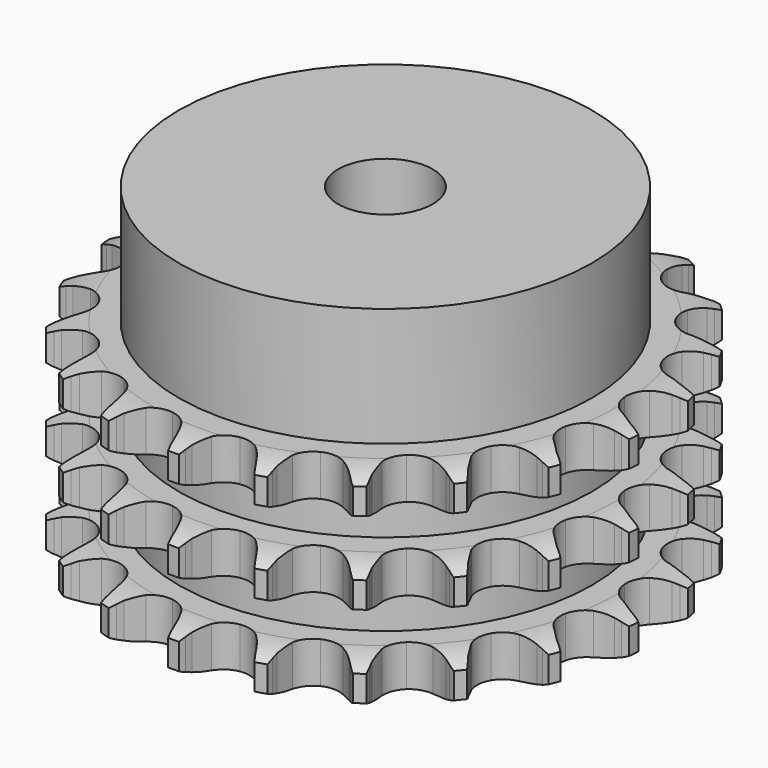
from build123d import *

# Parameters (mm, degrees)
PAD_DEPTH         = 34.9
SKETCH001_R       = 35
PAD001_DEPTH      = 55
SKETCH002_R       = 8
POCKET_DEPTH      = 0.001
POCKET_DEPTH_BACK = 55.001


with BuildPart() as part:
    # Sprocket → Pad (new body)
    with BuildSketch(Plane.XY):
        with BuildLine():
            ThreePointArc((-6.913563, 45.868493), (-5.990553, 44.773338), (-5.309548, 43.51336))
            Line((-5.309548, 43.51336), (-4.898754, 42.52278))
            ThreePointArc((-4.898754, 42.52278), (-4.238507, 41.19022), (-3.406386, 39.957655))
            ThreePointArc((-3.406386, 39.957655), (-1.89613, 38.72999), (0, 38.290989))
            ThreePointArc((0, 38.290989), (1.89613, 38.72999), (3.406386, 39.957655))
            ThreePointArc((3.406386, 39.957655), (4.238507, 41.19022), (4.898754, 42.52278))
            Line((4.898754, 42.52278), (5.309548, 43.51336))
            ThreePointArc((5.309548, 43.51336), (5.990553, 44.773338), (6.913563, 45.868493))
            ThreePointArc((6.913563, 45.868493), (7.472764, 44.549931), (7.752128, 43.1452))
            Line((7.752128, 43.1452), (7.852693, 42.077545))
            ThreePointArc((7.852693, 42.077545), (8.090828, 40.609576), (8.522676, 39.186498))
            ThreePointArc((8.522676, 39.186498), (9.603975, 37.56822), (11.286467, 36.589828))
            ThreePointArc((11.286467, 36.589828), (13.227756, 36.450431), (15.032775, 37.178398))
            Line((15.032775, 37.178398), (17.214925, 39.189679))
            ThreePointArc((17.214925, 39.189679), (17.547232, 39.610678), (17.899448, 40.015167))
            ThreePointArc((17.899448, 40.015167), (18.921582, 41.018438), (20.126388, 41.792876))
            ThreePointArc((20.126388, 41.792876), (20.272093, 40.368066), (20.124994, 38.9434))
            Line((20.124994, 38.9434), (19.906394, 37.893536))
            ThreePointArc((19.906394, 37.893536), (19.701258, 36.420593), (19.69446, 34.933449))
            ThreePointArc((19.69446, 34.933449), (20.250724, 33.068348), (21.570082, 31.6375))
            ThreePointArc((21.570082, 31.6375), (23.384037, 30.932091), (25.323437, 31.095678))
            Line((25.323437, 31.095678), (28.001475, 32.374403))
            ThreePointArc((28.001475, 32.374403), (28.44311, 32.678749), (28.898903, 32.96145))
            ThreePointArc((28.898903, 32.96145), (30.171346, 33.61887), (31.550896, 34.003779))
            ThreePointArc((31.550896, 34.003779), (31.270157, 32.599322), (30.709666, 31.281308))
            Line((30.709666, 31.281308), (30.191325, 30.34252))
            ThreePointArc((30.191325, 30.34252), (29.561144, 28.99548), (29.116305, 27.57641))
            ThreePointArc((29.116305, 27.57641), (29.098108, 25.630208), (29.937101, 23.874041))
            ThreePointArc((29.937101, 23.874041), (31.462544, 22.6653), (33.363999, 22.24997))
            Line((33.363999, 22.24997), (36.299971, 22.68252))
            ThreePointArc((36.299971, 22.68252), (36.811693, 22.84317), (37.330564, 22.978964))
            ThreePointArc((37.330564, 22.978964), (38.740254, 23.232117), (40.171968, 23.193296))
            ThreePointArc((40.171968, 23.193296), (39.48973, 21.933985), (38.565649, 20.839734))
            Line((38.565649, 20.839734), (37.793624, 20.095437))
            ThreePointArc((37.793624, 20.095437), (36.794394, 18.993992), (35.951039, 17.769086))
            ThreePointArc((35.951039, 17.769086), (35.359997, 15.914712), (35.644076, 13.989269))
            ThreePointArc((35.644076, 13.989269), (36.745465, 12.384596), (38.440024, 11.427255))
            Line((38.440024, 11.427255), (41.373055, 10.975195))
            ThreePointArc((41.373055, 10.975195), (41.909395, 10.977875), (42.44524, 10.954697))
            ThreePointArc((42.44524, 10.954697), (43.86692, 10.781089), (45.223584, 10.321988))
            ThreePointArc((45.223584, 10.321988), (44.200468, 9.319718), (42.994905, 8.546459))
            Line((42.994905, 8.546459), (42.037793, 8.062787))
            ThreePointArc((42.037793, 8.062787), (40.758299, 7.304804), (39.591365, 6.3829))
            ThreePointArc((39.591365, 6.3829), (38.479995, 4.785124), (38.18392, 2.861489))
            ThreePointArc((38.18392, 2.861489), (38.763391, 1.003467), (40.100484, -0.410822))
            Line((40.100484, -0.410822), (42.769962, -1.707325))
            ThreePointArc((42.769962, -1.707325), (43.283264, -1.862852), (43.788471, -2.042944))
            ThreePointArc((43.788471, -2.042944), (45.095817, -2.627886), (46.256887, -3.466474))
            ThreePointArc((46.256887, -3.466474), (44.9838, -4.122648), (43.603875, -4.506207))
            Line((43.603875, -4.506207), (42.54672, -4.686277))
            ThreePointArc((42.54672, -4.686277), (41.100651, -5.033447), (39.713825, -5.570434))
            ThreePointArc((39.713825, -5.570434), (38.180877, -6.769643), (37.330954, -8.520547))
            ThreePointArc((37.330954, -8.520547), (37.33702, -10.466824), (38.19784, -12.212395))
            Line((38.19784, -12.212395), (40.36657, -14.238141))
            ThreePointArc((40.36657, -14.238141), (40.811224, -14.538057), (41.240904, -14.85906))
            ThreePointArc((41.240904, -14.85906), (42.317754, -15.803362), (43.180062, -16.946925))
            ThreePointArc((43.180062, -16.946925), (41.770125, -17.198698), (40.338449, -17.158477))
            Line((40.338449, -17.158477), (39.275184, -17.018945))
            ThreePointArc((39.275184, -17.018945), (37.79103, -16.924455), (36.307537, -17.02881))
            ThreePointArc((36.307537, -17.02881), (34.489221, -17.722898), (33.160969, -19.145494))
            ThreePointArc((33.160969, -19.145494), (32.59309, -21.007092), (32.901151, -22.928844))
            Line((32.901151, -22.928844), (34.376431, -25.503835))
            ThreePointArc((34.376431, -25.503835), (34.712929, -25.921491), (35.028901, -26.354883))
            ThreePointArc((35.028901, -26.354883), (35.779572, -27.57464), (36.266499, -28.921568))
            ThreePointArc((36.266499, -28.921568), (34.84499, -28.746569), (33.488775, -28.28614))
            Line((33.488775, -28.28614), (32.513876, -27.839404))
            ThreePointArc((32.513876, -27.839404), (31.12351, -27.311651), (29.675165, -26.974102))
            ThreePointArc((29.675165, -26.974102), (27.733045, -27.101396), (26.044487, -28.069281))
            ThreePointArc((26.044487, -28.069281), (24.953122, -29.680788), (24.68105, -31.607964))
            Line((24.68105, -31.607964), (25.331795, -34.503402))
            ThreePointArc((25.331795, -34.503402), (25.530237, -35.001687), (25.704427, -35.50896))
            ThreePointArc((25.704427, -35.50896), (26.062218, -36.89579), (26.130498, -38.326402))
            ThreePointArc((26.130498, -38.326402), (24.823725, -37.74018), (23.663477, -36.900456))
            Line((23.663477, -36.900456), (22.863567, -36.186211))
            ThreePointArc((22.863567, -36.186211), (21.69053, -35.272086), (20.406024, -34.522627))
            ThreePointArc((20.406024, -34.522627), (18.512667, -34.071815), (16.613837, -34.498989))
            ThreePointArc((16.613837, -34.498989), (15.095959, -35.717216), (14.267929, -37.478578))
            Line((14.267929, -37.478578), (14.036318, -40.43719))
            ThreePointArc((14.036318, -40.43719), (14.079072, -40.97183), (14.096002, -41.507909))
            ThreePointArc((14.096002, -41.507909), (14.029122, -42.938587), (13.672688, -44.325767))
            ThreePointArc((13.672688, -44.325767), (12.596763, -43.380411), (11.735574, -42.236005))
            Line((11.735574, -42.236005), (11.18173, -41.317714))
            ThreePointArc((11.18173, -41.317714), (10.33025, -40.098442), (9.323719, -39.003665))
            ThreePointArc((9.323719, -39.003665), (7.647358, -38.014805), (5.706976, -37.86331))
            ThreePointArc((5.706976, -37.86331), (3.897453, -38.580012), (2.58704, -40.019056))
            Line((2.58704, -40.019056), (1.493653, -42.777957))
            ThreePointArc((1.493653, -42.777957), (1.376919, -43.301446), (1.235085, -43.818699))
            ThreePointArc((1.235085, -43.818699), (0.749477, -45.166102), (0, -46.386593))
            ThreePointArc((0, -46.386593), (-0.749477, -45.166102), (-1.235085, -43.818699))
            Line((-1.235085, -43.818699), (-1.493653, -42.777957))
            ThreePointArc((-1.493653, -42.777957), (-1.947917, -41.361876), (-2.58704, -40.019056))
            ThreePointArc((-2.58704, -40.019056), (-3.897453, -38.580012), (-5.706976, -37.86331))
            ThreePointArc((-5.706976, -37.86331), (-7.647358, -38.014805), (-9.323719, -39.003665))
            Line((-9.323719, -39.003665), (-11.18173, -41.317714))
            ThreePointArc((-11.18173, -41.317714), (-11.447579, -41.783538), (-11.735574, -42.236005))
            ThreePointArc((-11.735574, -42.236005), (-12.596763, -43.380411), (-13.672688, -44.325767))
            ThreePointArc((-13.672688, -44.325767), (-14.029122, -42.938587), (-14.096002, -41.507909))
            Line((-14.096002, -41.507909), (-14.036318, -40.43719))
            ThreePointArc((-14.036318, -40.43719), (-14.053003, -38.950125), (-14.267929, -37.478578))
            ThreePointArc((-14.267929, -37.478578), (-15.095959, -35.717216), (-16.613837, -34.498989))
            ThreePointArc((-16.613837, -34.498989), (-18.512667, -34.071815), (-20.406024, -34.522627))
            Line((-20.406024, -34.522627), (-22.863567, -36.186211))
            ThreePointArc((-22.863567, -36.186211), (-23.254909, -36.55298), (-23.663477, -36.900456))
            ThreePointArc((-23.663477, -36.900456), (-24.823725, -37.74018), (-26.130498, -38.326402))
            ThreePointArc((-26.130498, -38.326402), (-26.062218, -36.89579), (-25.704427, -35.50896))
            Line((-25.704427, -35.50896), (-25.331795, -34.503402))
            ThreePointArc((-25.331795, -34.503402), (-24.909419, -33.077485), (-24.68105, -31.607964))
            ThreePointArc((-24.68105, -31.607964), (-24.953122, -29.680788), (-26.044487, -28.069281))
            ThreePointArc((-26.044487, -28.069281), (-27.733045, -27.101396), (-29.675165, -26.974102))
            Line((-29.675165, -26.974102), (-32.513876, -27.839404))
            ThreePointArc((-32.513876, -27.839404), (-32.995939, -28.074529), (-33.488775, -28.28614))
            ThreePointArc((-33.488775, -28.28614), (-34.84499, -28.746569), (-36.266499, -28.921568))
            ThreePointArc((-36.266499, -28.921568), (-35.779572, -27.57464), (-35.028901, -26.354883))
            Line((-35.028901, -26.354883), (-34.376431, -25.503835))
            ThreePointArc((-34.376431, -25.503835), (-33.552523, -24.265765), (-32.901151, -22.928844))
            ThreePointArc((-32.901151, -22.928844), (-32.59309, -21.007092), (-33.160969, -19.145494))
            ThreePointArc((-33.160969, -19.145494), (-34.489221, -17.722898), (-36.307537, -17.02881))
            Line((-36.307537, -17.02881), (-39.275184, -17.018945))
            ThreePointArc((-39.275184, -17.018945), (-39.805134, -17.101533), (-40.338449, -17.158477))
            ThreePointArc((-40.338449, -17.158477), (-41.770125, -17.198698), (-43.180062, -16.946925))
            ThreePointArc((-43.180062, -16.946925), (-42.317754, -15.803362), (-41.240904, -14.85906))
            Line((-41.240904, -14.85906), (-40.36657, -14.238141))
            ThreePointArc((-40.36657, -14.238141), (-39.214338, -13.297925), (-38.19784, -12.212395))
            ThreePointArc((-38.19784, -12.212395), (-37.33702, -10.466824), (-37.330954, -8.520547))
            ThreePointArc((-37.330954, -8.520547), (-38.180877, -6.769643), (-39.713825, -5.570434))
            Line((-39.713825, -5.570434), (-42.54672, -4.686277))
            ThreePointArc((-42.54672, -4.686277), (-43.077469, -4.60899), (-43.603875, -4.506207))
            ThreePointArc((-43.603875, -4.506207), (-44.9838, -4.122648), (-46.256887, -3.466474))
            ThreePointArc((-46.256887, -3.466474), (-45.095817, -2.627886), (-43.788471, -2.042944))
            Line((-43.788471, -2.042944), (-42.769962, -1.707325))
            ThreePointArc((-42.769962, -1.707325), (-41.391787, -1.148506), (-40.100484, -0.410822))
            ThreePointArc((-40.100484, -0.410822), (-38.763391, 1.003467), (-38.18392, 2.861489))
            ThreePointArc((-38.18392, 2.861489), (-38.479995, 4.785124), (-39.591365, 6.3829))
            Line((-39.591365, 6.3829), (-42.037793, 8.062787))
            ThreePointArc((-42.037793, 8.062787), (-42.522182, 8.293081), (-42.994905, 8.546459))
            ThreePointArc((-42.994905, 8.546459), (-44.200468, 9.319718), (-45.223584, 10.321988))
            ThreePointArc((-45.223584, 10.321988), (-43.86692, 10.781089), (-42.44524, 10.954697))
            Line((-42.44524, 10.954697), (-41.373055, 10.975195))
            ThreePointArc((-41.373055, 10.975195), (-39.891395, 11.102962), (-38.440024, 11.427255))
            ThreePointArc((-38.440024, 11.427255), (-36.745465, 12.384596), (-35.644076, 13.989269))
            ThreePointArc((-35.644076, 13.989269), (-35.359997, 15.914712), (-35.951039, 17.769086))
            Line((-35.951039, 17.769086), (-37.793624, 20.095437))
            ThreePointArc((-37.793624, 20.095437), (-38.188612, 20.458276), (-38.565649, 20.839734))
            ThreePointArc((-38.565649, 20.839734), (-39.48973, 21.933985), (-40.171968, 23.193296))
            ThreePointArc((-40.171968, 23.193296), (-38.740254, 23.232117), (-37.330564, 22.978964))
            Line((-37.330564, 22.978964), (-36.299971, 22.68252))
            ThreePointArc((-36.299971, 22.68252), (-34.846476, 22.367884), (-33.363999, 22.24997))
            ThreePointArc((-33.363999, 22.24997), (-31.462544, 22.6653), (-29.937101, 23.874041))
            ThreePointArc((-29.937101, 23.874041), (-29.098108, 25.630208), (-29.116305, 27.57641))
            Line((-29.116305, 27.57641), (-30.191325, 30.34252))
            ThreePointArc((-30.191325, 30.34252), (-30.461816, 30.805663), (-30.709666, 31.281308))
            ThreePointArc((-30.709666, 31.281308), (-31.270157, 32.599322), (-31.550896, 34.003779))
            ThreePointArc((-31.550896, 34.003779), (-30.171346, 33.61887), (-28.898903, 32.96145))
            Line((-28.898903, 32.96145), (-28.001475, 32.374403))
            ThreePointArc((-28.001475, 32.374403), (-26.705296, 31.64532), (-25.323437, 31.095678))
            ThreePointArc((-25.323437, 31.095678), (-23.384037, 30.932091), (-21.570082, 31.6375))
            ThreePointArc((-21.570082, 31.6375), (-20.250724, 33.068348), (-19.69446, 34.933449))
            Line((-19.69446, 34.933449), (-19.906394, 37.893536))
            ThreePointArc((-19.906394, 37.893536), (-20.028355, 38.415832), (-20.124994, 38.9434))
            ThreePointArc((-20.124994, 38.9434), (-20.272093, 40.368066), (-20.126388, 41.792876))
            ThreePointArc((-20.126388, 41.792876), (-18.921582, 41.018438), (-17.899448, 40.015167))
            Line((-17.899448, 40.015167), (-17.214925, 39.189679))
            ThreePointArc((-17.214925, 39.189679), (-16.191233, 38.110932), (-15.032775, 37.178398))
            ThreePointArc((-15.032775, 37.178398), (-13.227756, 36.450431), (-11.286467, 36.589828))
            ThreePointArc((-11.286467, 36.589828), (-9.603975, 37.56822), (-8.522676, 39.186498))
            Line((-8.522676, 39.186498), (-7.852693, 42.077545))
            ThreePointArc((-7.852693, 42.077545), (-7.815286, 42.612585), (-7.752128, 43.1452))
            ThreePointArc((-7.752128, 43.1452), (-7.472764, 44.549931), (-6.913563, 45.868493))
        make_face()
    extrude(amount=PAD_DEPTH)

    # Sketch → Groove (revolve, cut)
    with BuildSketch(Plane.XZ):
        with BuildLine():
            ThreePointArc((39.183431, 0), (42.09032, 0.329167), (44.85, 1.3))
            Line((44.85, 1.3), (44.85, 5.7))
            ThreePointArc((44.85, 5.7), (42.09032, 6.670833), (39.183431, 7))
            Line((35, 7), (39.183431, 7))
            Line((35, 7), (35, 13.95))
            Line((35, 13.95), (39.183431, 13.95))
            ThreePointArc((39.183431, 13.95), (42.09032, 14.279167), (44.85, 15.25))
            Line((44.85, 19.65), (44.85, 15.25))
            ThreePointArc((44.85, 19.65), (42.09032, 20.620833), (39.183431, 20.95))
            Line((35, 20.95), (39.183431, 20.95))
            Line((35, 27.9), (35, 20.95))
            Line((39.183431, 27.9), (35, 27.9))
            ThreePointArc((39.183431, 27.9), (42.09032, 28.229167), (44.85, 29.2))
            Line((44.85, 29.2), (44.85, 33.6))
            ThreePointArc((44.85, 33.6), (42.09032, 34.570833), (39.183431, 34.9))
            Line((39.183431, 34.9), (54.85, 34.9))
            Line((54.85, 34.9), (54.85, 0))
            Line((39.183431, 0), (54.85, 0))
        make_face()
    revolve(axis=Axis((0, 0, 0), (0, 0, 1)), mode=Mode.SUBTRACT)

    # Sketch001 → Pad001 (join)
    with BuildSketch(Plane.XY):
        Circle(SKETCH001_R)
    extrude(amount=PAD001_DEPTH)

    # Sketch002 → Pocket (cut, two sides)
    with BuildSketch(Plane.XY) as pocket_sk:
        Circle(SKETCH002_R)
    extrude(amount=-POCKET_DEPTH, mode=Mode.SUBTRACT)
    extrude(pocket_sk.sketch, amount=POCKET_DEPTH_BACK, mode=Mode.SUBTRACT)


solid = part.part
